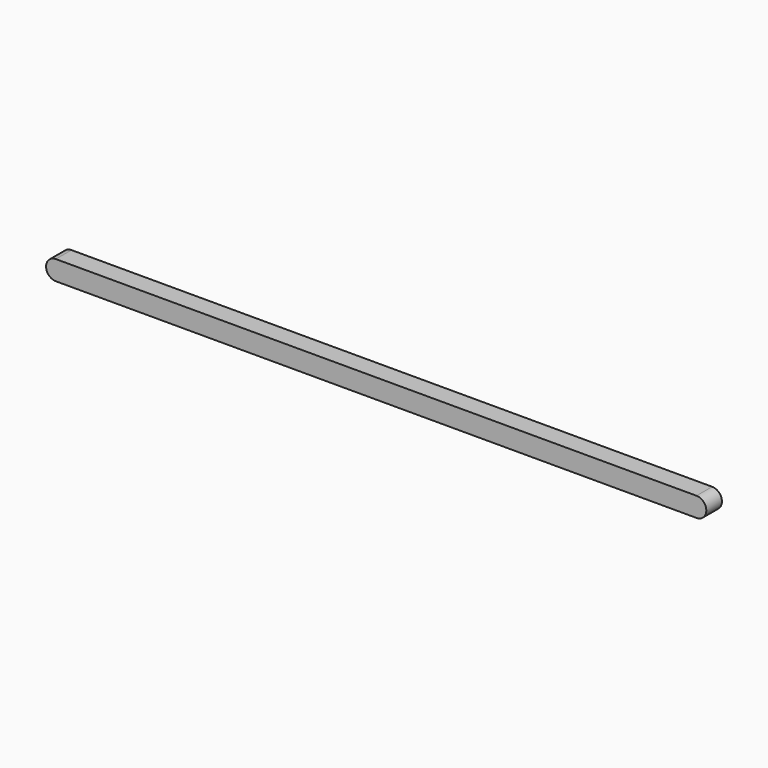
from build123d import *

# Parameters (mm, degrees)
F1_DEPTH = 0.79375


with BuildPart() as f1:
    # F0 (on Front) → F1 (new body, symmetric)
    with BuildSketch(Plane.XZ):
        with BuildLine():
            Line((-26.035, -0.79375), (26.035, -0.79375))
            ThreePointArc((26.035, -0.79375), (25.24125, 0), (26.035, 0.79375))
            Line((26.035, 0.79375), (-26.035, 0.79375))
            ThreePointArc((-26.035, 0.79375), (-25.4737339924, 0.5612660076), (-25.24125, 0))
            ThreePointArc((-25.24125, 0), (-25.4737339924, -0.5612660076), (-26.035, -0.79375))
        make_face()
        with BuildLine():
            Line((-26.035, 0.79375), (-26.035, -0.79375))
            ThreePointArc((-26.035, -0.79375), (-25.4737339924, -0.5612660076), (-25.24125, 0))
            ThreePointArc((-25.24125, 0), (-25.4737339924, 0.5612660076), (-26.035, 0.79375))
        make_face()
        with BuildLine():
            ThreePointArc((-26.035, 0.79375), (-26.82875, 0), (-26.035, -0.79375))
            Line((-26.035, -0.79375), (-26.035, 0.79375))
        make_face()
        with BuildLine():
            ThreePointArc((26.035, 0.79375), (25.24125, 0), (26.035, -0.79375))
            Line((26.035, -0.79375), (26.035, 0.79375))
        make_face()
        with BuildLine():
            Line((26.035, 0.79375), (26.035, -0.79375))
            ThreePointArc((26.035, -0.79375), (26.5962660076, -0.5612660076), (26.82875, 0))
            ThreePointArc((26.82875, 0), (26.5962660076, 0.5612660076), (26.035, 0.79375))
        make_face()
    extrude(amount=F1_DEPTH, both=True)


solid = f1.part
